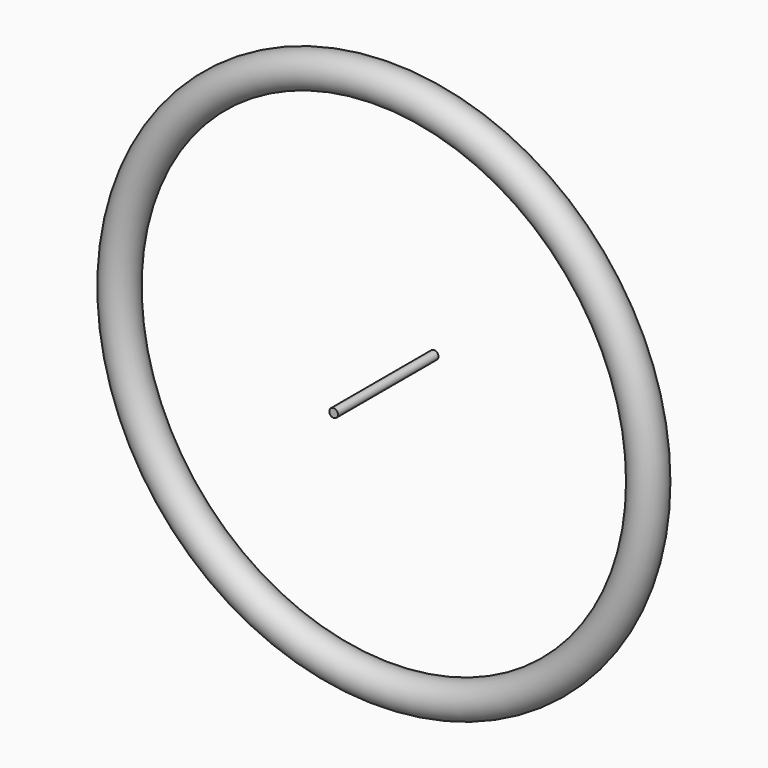
from build123d import *

# Parameters (mm, degrees)
F0_R     = 20
F2_R     = 5
F3_DEPTH = 72.5


with BuildPart() as f1:
    # F0 (on Top) → F1 (revolve)
    with BuildSketch(Plane.XY):
        with Locations((305, 0)):
            Circle(F0_R)
    revolve(axis=Axis((0, 17.5255890936, 0), (0, 1, 0)))


with BuildPart() as f3:
    # F2 (on Front) → F3 (new body, symmetric)
    with BuildSketch(Plane.XZ):
        Circle(F2_R)
    extrude(amount=F3_DEPTH, both=True)


solid = Compound([f1.part, f3.part])
